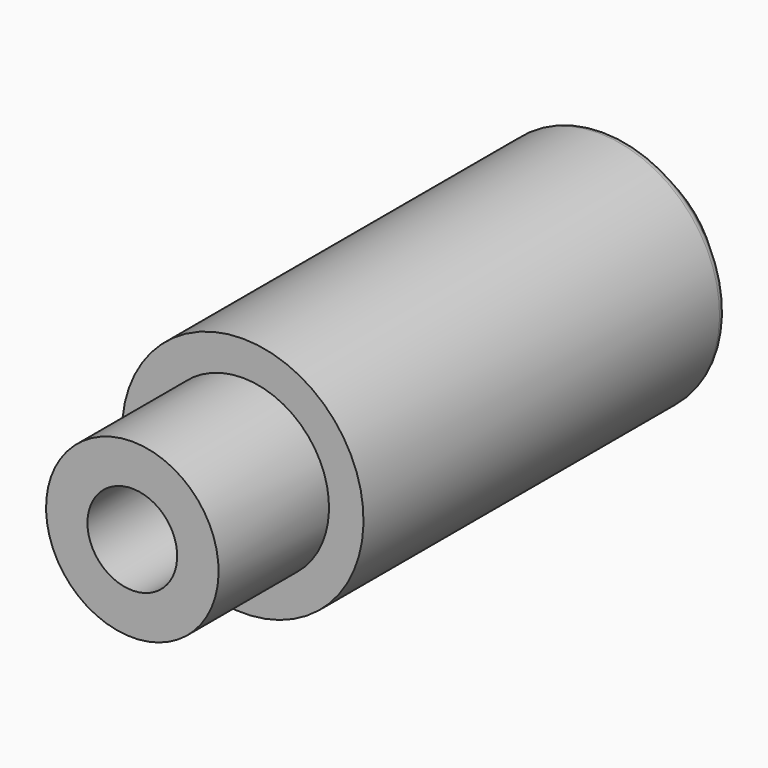
from build123d import *

# Parameters (mm, degrees)
F3_D     = 5.2
F3_DEPTH = 8.5
F3_TIP   = 1.5622376095


with BuildPart() as f1:
    # F0 (on Right) → F1 (revolve)
    with BuildSketch(Plane.YZ):
        with BuildLine():
            Line((-36, 5), (-36, 0))
            Line((-36, 0), (0, 0))
            Line((0, 0), (0, 4.7928932188))
            ThreePointArc((0, 4.7928932188), (-0.0380602337, 4.984234935), (-0.1464466094, 5.1464466094))
            Line((-0.1464466094, 5.1464466094), (-1.8535533906, 6.8535533906))
            ThreePointArc((-1.8535533906, 6.8535533906), (-2.015765065, 6.9619397663), (-2.2071067812, 7))
            Line((-2.2071067812, 7), (-28, 7))
            Line((-28, 7), (-28, 5))
            Line((-28, 5), (-36, 5))
        make_face()
    revolve(axis=Axis((0, -18, 0), (0, 1, 0)))

    # F3
    with Locations(Plane.XZ.offset(36)):
        with Locations((0, 0)):
            Hole(F3_D / 2, depth=F3_DEPTH)
            with Locations((0, 0, -(F3_DEPTH + F3_TIP / 2))):  # 118° drill point
                Cone(0, F3_D / 2, F3_TIP, mode=Mode.SUBTRACT)


solid = f1.part
